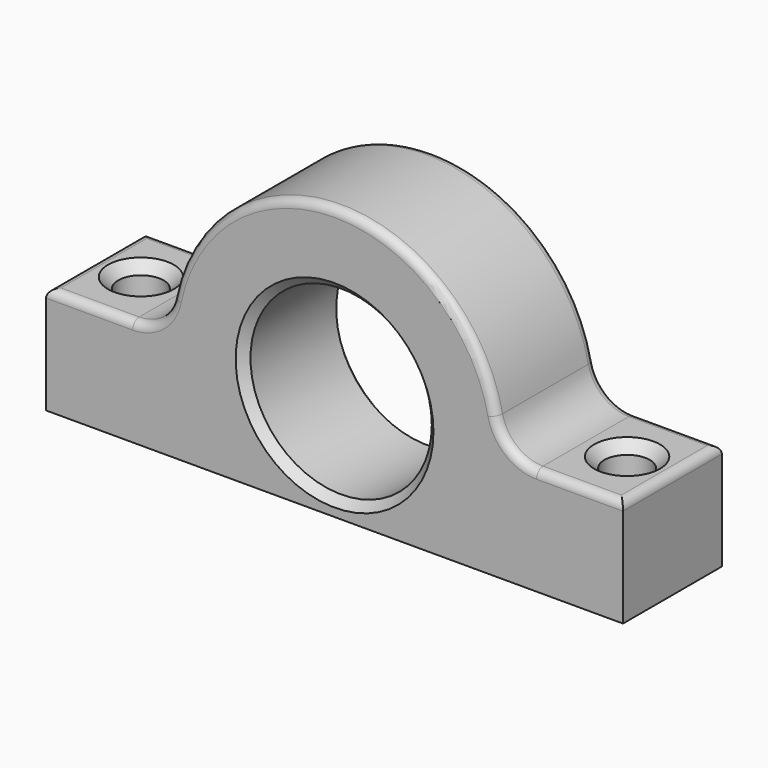
from build123d import *

# Parameters (mm, degrees)
F0_R           = 11
F1_DEPTH       = 15
F3_D           = 5.5
F3_CSINK_D     = 8
F3_CSINK_ANGLE = 90
F4_SIZE        = 1
F5_R           = 1


with BuildPart() as f1:
    # F0 (on Front) → F1 (new body)
    with BuildSketch(Plane.XZ):
        with BuildLine():
            ThreePointArc((24.494897, 0), (21.33262, 1.127017), (19.595918, 4))
            ThreePointArc((19.595918, 4), (0, 20), (-19.595918, 4))
            ThreePointArc((-19.595918, 4), (-21.33262, 1.127017), (-24.494897, 0))
            Line((-24.494897, 0), (-35, 0))
            Line((-35, 0), (-35, -13))
            Line((-35, -13), (35, -13))
            Line((35, -13), (35, 0))
            Line((35, 0), (24.494897, 0))
        make_face()
        Circle(F0_R, mode=Mode.SUBTRACT)
    extrude(amount=F1_DEPTH)

    # F3 (through all)
    with Locations(Plane.XY):
        with Locations((-29.494897, -7.5), (-29.494897, -22.5), (29.494897, -7.5), (29.494897, -22.5)):
            CounterSinkHole(F3_D / 2, F3_CSINK_D / 2, counter_sink_angle=F3_CSINK_ANGLE)

    # F4
    f4_edges = [f1.edges().sort_by_distance(p)[0] for p in [
        (-11, -15, 0),
        (-11, 0, 0),
    ]]
    chamfer(f4_edges, length=F4_SIZE)

    # F5
    f5_edges = [f1.edges().sort_by_distance(p)[0] for p in [
        (0, 0, 20),
        (0, -15, 20),
        (35, -7.5, 0),
        (-35, -7.5, 0),
    ]]
    fillet(f5_edges, radius=F5_R)


solid = f1.part
